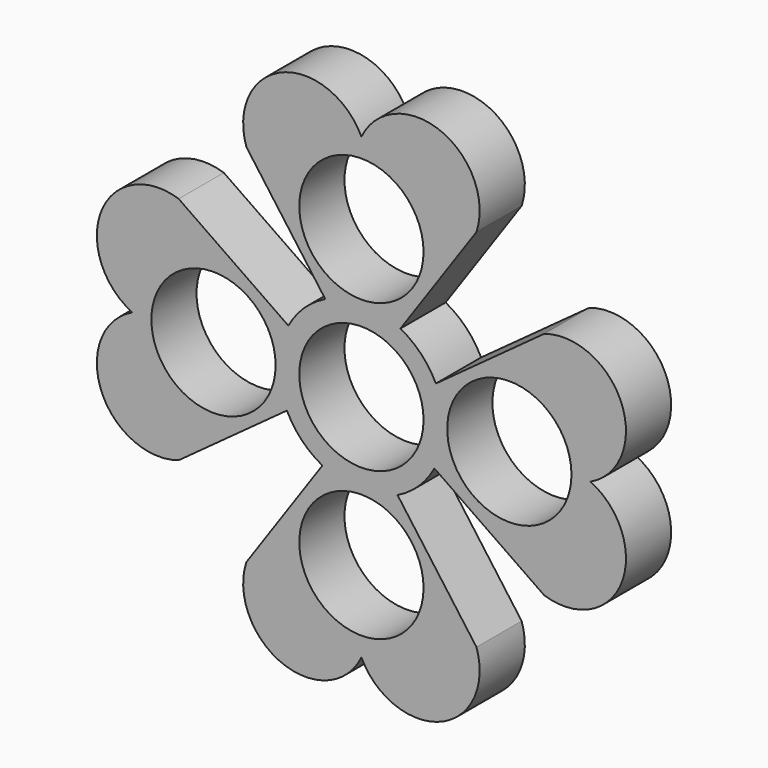
from build123d import *

# Parameters (mm, degrees)
F0_R     = 11
F1_DEPTH = 10


with BuildPart() as f1:
    # F0 (on Front) → F1 (new body)
    with BuildSketch(Plane.XZ):
        with BuildLine():
            Line((-20.372283, 32.355979), (-6.394864, 13.188366))
            ThreePointArc((-6.394864, 13.188366), (-10.156356, 10.567673), (-12.924238, 6.91313))
            Line((-12.924238, 6.91313), (-32.355979, 20.372283))
            ThreePointArc((-32.355979, 20.372283), (-46.045209, 14.050558), (-40.57337, 0))
            ThreePointArc((-40.57337, 0), (-46.045209, -14.050558), (-32.355979, -20.372283))
            Line((-32.355979, -20.372283), (-13.188366, -6.394864))
            ThreePointArc((-13.188366, -6.394864), (-10.567673, -10.156356), (-6.91313, -12.924238))
            Line((-6.91313, -12.924238), (-20.372283, -32.355979))
            ThreePointArc((-20.372283, -32.355979), (-14.050558, -46.045209), (0, -40.57337))
            ThreePointArc((0, -40.57337), (14.050558, -46.045209), (20.372283, -32.355979))
            Line((20.372283, -32.355979), (6.394864, -13.188366))
            ThreePointArc((6.394864, -13.188366), (10.156356, -10.567673), (12.924238, -6.91313))
            Line((12.924238, -6.91313), (32.355979, -20.372283))
            ThreePointArc((32.355979, -20.372283), (46.045209, -14.050558), (40.57337, 0))
            ThreePointArc((40.57337, 0), (46.045209, 14.050558), (32.355979, 20.372283))
            Line((32.355979, 20.372283), (13.188366, 6.394864))
            ThreePointArc((13.188366, 6.394864), (10.567673, 10.156356), (6.91313, 12.924238))
            Line((6.91313, 12.924238), (20.372283, 32.355979))
            ThreePointArc((20.372283, 32.355979), (14.050558, 46.045209), (0, 40.57337))
            ThreePointArc((0, 40.57337), (-14.050558, 46.045209), (-20.372283, 32.355979))
        make_face()
        with Locations((0, -26.192937)):
            Circle(F0_R, mode=Mode.SUBTRACT)
        with Locations((-26.192937, 0)):
            Circle(F0_R, mode=Mode.SUBTRACT)
        Circle(F0_R, mode=Mode.SUBTRACT)
        with Locations((26.192937, 0)):
            Circle(F0_R, mode=Mode.SUBTRACT)
        with Locations((0, 26.192937)):
            Circle(F0_R, mode=Mode.SUBTRACT)
    extrude(amount=F1_DEPTH)


solid = f1.part
